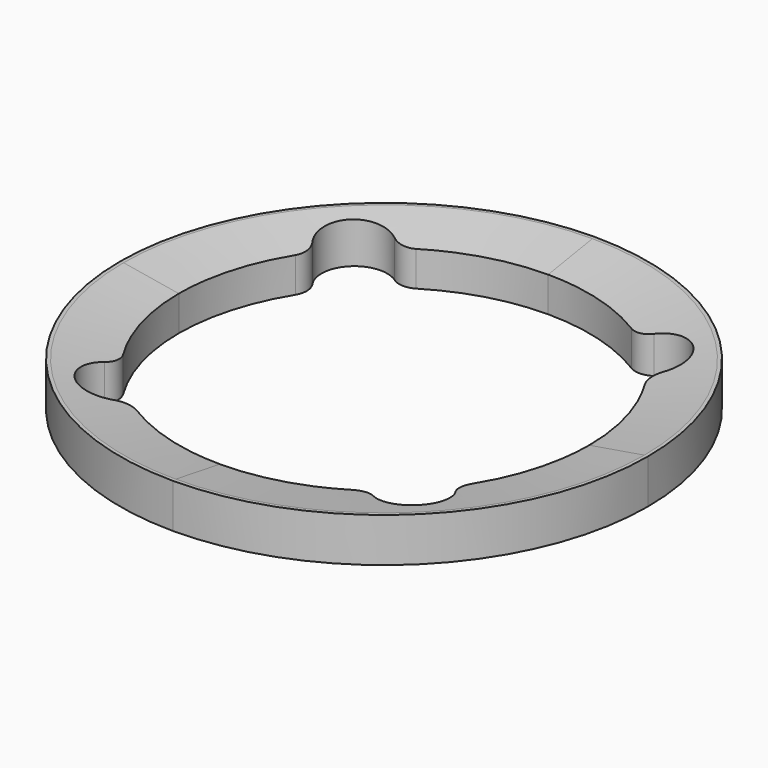
from build123d import *

# Parameters (mm, degrees)
PAD013_DEPTH       = 5
CHAMFER004_SIZE2   = 9
CHAMFER004_SIZE    = 1.5
POCKET005_DEPTH    = 5
SKETCH029_R        = 1.6
POCKET006_DEPTH    = 5
POLARPATTERN_COUNT = 4


with BuildPart() as part:
    # Sketch027 → Pad013 (new body)
    with BuildSketch(Plane.XY):
        with BuildLine():
            ThreePointArc((0, 29.9), (-21.142493, 21.142493), (-29.9, 0))
            Line((-29.9, 0), (-20.5, 0))
            ThreePointArc((0, 20.5), (-14.495689, 14.495689), (-20.5, 0))
            Line((0, 29.9), (0, 20.5))
        make_face()
    extrude(amount=PAD013_DEPTH)

    # Chamfer004
    chamfer004_edges = [part.edges().sort_by_distance(p)[0] for p in [
        (-14.495689, 14.495689, 5),
    ]]
    chamfer004_side = part.faces().sort_by_distance((-14.495689, 14.495689, 2.5))[0]
    chamfer(chamfer004_edges, length=CHAMFER004_SIZE, length2=CHAMFER004_SIZE2, reference=chamfer004_side)

    # Sketch015 (on Face6 of Pad013) → Pocket005 (cut)
    with BuildSketch(Plane.XY.offset(5)):
        with BuildLine():
            ThreePointArc((0, 20.5), (-14.495689, 14.495689), (-20.5, 0))
            Line((-20.5, 0), (-23.25, 0))
            ThreePointArc((-19.791981, 12.2), (-22.368796, 6.340306), (-23.25, 0))
            ThreePointArc((-19.791981, 12.2), (-19.466026, 13.456827), (-19.866411, 14.691959))
            ThreePointArc((-14.691475, 19.881138), (-19.458765, 19.460387), (-19.866411, 14.691959))
            ThreePointArc((-14.691475, 19.881138), (-13.458731, 19.47346), (-12.2, 19.791981))
            ThreePointArc((0, 23.25), (-6.340306, 22.368796), (-12.2, 19.791981))
            Line((0, 20.5), (0, 23.25))
        make_face()
    extrude(amount=-POCKET005_DEPTH, mode=Mode.SUBTRACT)

    # Sketch029 (on Face3 of Pocket005) → Pocket006 (cut)
    with BuildSketch(Plane(origin=(-16.776703, 16.775598, 4.528711), x_dir=(-0.705669, 0.705678, 0.063645), z_dir=(0.045003, -0.045005, 0.997973))):
        with Locations((-16.95, 16.95)):
            Circle(SKETCH029_R)
    extrude(amount=-POCKET006_DEPTH, mode=Mode.SUBTRACT)

    # PolarPattern: part ×4 about axis
    polarpattern_axis = Axis((0, 0, 0), (0, 0, 1))


with BuildPart() as part_1:
    add(part.part)
    for i in range(1, POLARPATTERN_COUNT):
        add(part.part.rotate(polarpattern_axis, i * 360 / POLARPATTERN_COUNT))


with BuildPart() as part_2:
    # Body003 placement: moved
    add(part_1.part.moved(Location((-45, 0, 42.7))))


solid = part_2.part
